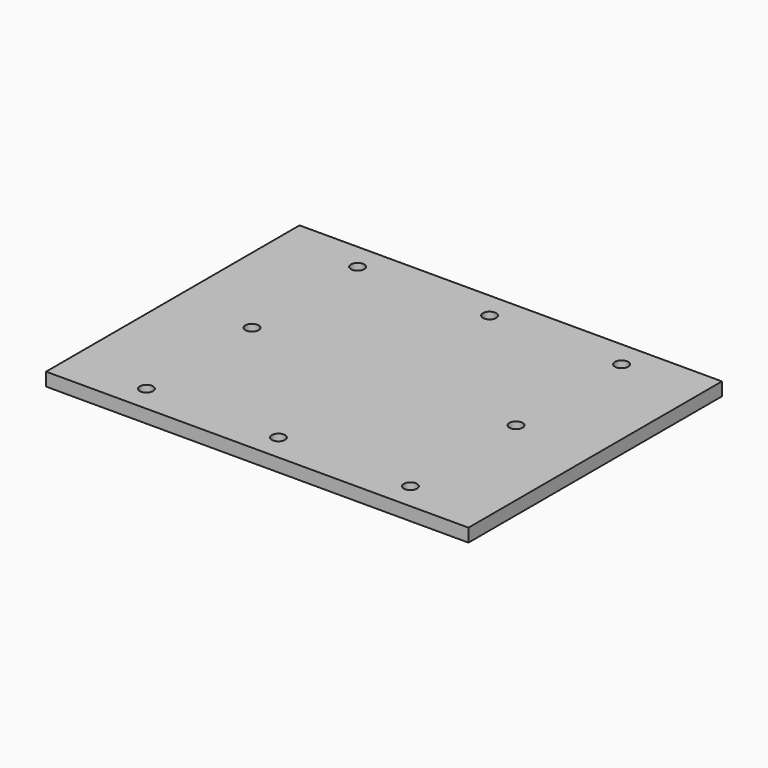
from build123d import *

# Parameters (mm, degrees)
F0_W     = 203.2
F0_H     = 152.4
F0_R     = 3.175
F1_DEPTH = 6.35


with BuildPart() as f1:
    # F0 (on Top) → F1 (new body)
    with BuildSketch(Plane.XY):
        Rectangle(F0_W, F0_H)
        with Locations((-63.5, -63.5)):
            Circle(F0_R, mode=Mode.SUBTRACT)
        with Locations((0, -63.5)):
            Circle(F0_R, mode=Mode.SUBTRACT)
        with Locations((63.5, -63.5)):
            Circle(F0_R, mode=Mode.SUBTRACT)
        with Locations((-63.5, 0)):
            Circle(F0_R, mode=Mode.SUBTRACT)
        with Locations((-63.5, 63.5)):
            Circle(F0_R, mode=Mode.SUBTRACT)
        with Locations((0, 63.5)):
            Circle(F0_R, mode=Mode.SUBTRACT)
        with Locations((63.5, 0)):
            Circle(F0_R, mode=Mode.SUBTRACT)
        with Locations((63.5, 63.5)):
            Circle(F0_R, mode=Mode.SUBTRACT)
    extrude(amount=F1_DEPTH)


solid = f1.part
